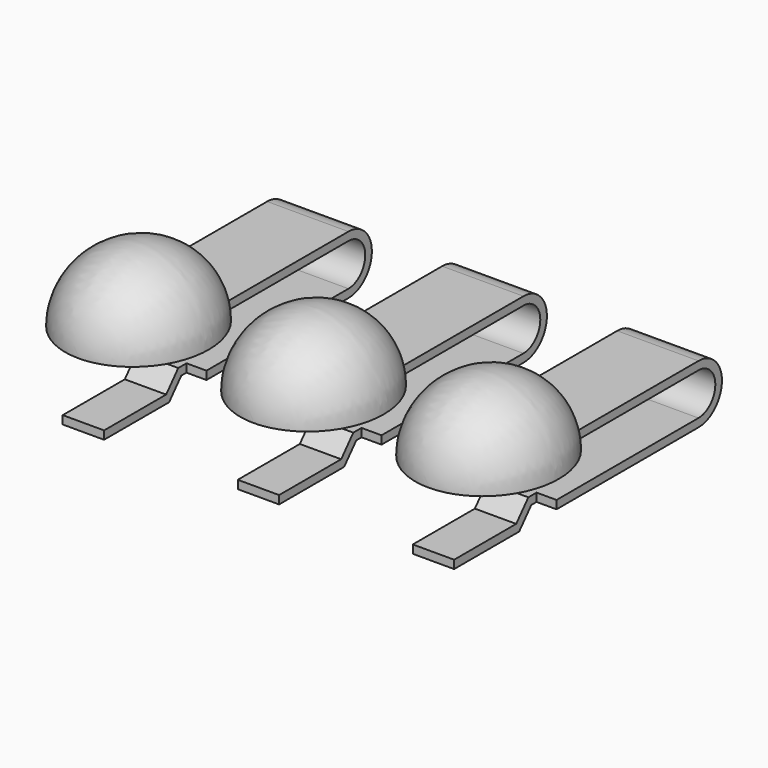
from build123d import *

# Parameters (mm, degrees)
PAD001_DEPTH      = 0.59
PAD001_DEPTH_BACK = 0.59
PAD002_DEPTH      = 0.12
SKETCH009_W       = 0.29
SKETCH009_H       = 1.495
POCKET004_DEPTH   = 10.532424
REVOLUTION_ANGLE  = -180
ARRAY_X_COUNT     = 3
ARRAY_X_PITCH     = 2.54


with BuildPart() as array:
    # Sketch007 → Pad001 (new body, two sides)
    with BuildSketch(Plane.YZ) as pad001_sk:
        with BuildLine():
            Line((-0.97, 0.12), (-3.07, 0.12))
            ThreePointArc((-3.07, 0.12), (-3.495, -0.305), (-3.07, -0.73))
            Line((-3.07, -0.73), (-0.4, -0.73))
            Line((-0.4, -0.73), (-0.18, -0.98))
            Line((-0.18, -0.98), (1, -0.98))
            Line((1, -0.98), (1, -0.86))
            Line((1, -0.86), (-0.125752, -0.86))
            Line((-0.125752, -0.86), (-0.345752, -0.61))
            Line((-0.345752, -0.61), (-3.07, -0.61))
            ThreePointArc((-3.07, 0), (-3.375, -0.305), (-3.07, -0.61))
            Line((-3.07, 0), (-0.97, 0))
            Line((-0.97, 0), (-0.97, 0.12))
        make_face()
    extrude(amount=PAD001_DEPTH)
    extrude(pad001_sk.sketch, amount=-PAD001_DEPTH_BACK)

    # Sketch008 → Pad002 (join)
    with BuildSketch(Plane.XY):
        with BuildLine():
            Line((-0.59, -0.77), (-0.59, -0.97))
            Line((-0.59, -0.97), (-0.19, -0.97))
            ThreePointArc((-0.59, -0.77), (-0.40933, -0.90866), (-0.19, -0.97))
        make_face()
    pad002 = extrude(amount=PAD002_DEPTH)

    # Mirrored004: Pad002 across Sketch008 V_Axis
    add(pad002.mirror(Plane(origin=(0, 0, 0), x_dir=(0, 0, 1), z_dir=(1, 0, 0))))

    # Sketch009 → Pocket004 (cut, through all)
    with BuildSketch(Plane.XY):
        with Locations((-0.445, 0.2525)):
            Rectangle(SKETCH009_W, SKETCH009_H)
    pocket004 = extrude(amount=-POCKET004_DEPTH, mode=Mode.SUBTRACT)

    # Mirrored005: Pocket004 across Sketch009 V_Axis
    add(pocket004.mirror(Plane(origin=(0, 0, 0), x_dir=(0, 0, 1), z_dir=(1, 0, 0))), mode=Mode.SUBTRACT)

    # Sketch006 → Revolution (revolve)
    with BuildSketch(Plane.XY):
        with BuildLine():
            add(Edge.make_bspline(
                [(0, -1.09), (1.02, -1.09), (1.02, 0), (1.02, 1.09), (0, 1.09)],
                knots=[0, 0, 0, 1.570796, 1.570796, 3.141593, 3.141593, 3.141593], degree=2, weights=[1, 0.707107, 1, 0.707107, 1]))
            Line((0, 1.09), (0, 0.97))
            add(Edge.make_bspline(
                [(0, 0.97), (0.9, 0.97), (0.9, 0), (0.9, -0.97), (0, -0.97)],
                knots=[0, 0, 0, 1, 1, 2, 2, 2], degree=2, weights=[1, 0.707, 1, 0.707, 1]))
            Line((0, -0.97), (0, -1.09))
        make_face()
    revolve(axis=Axis((0, 0, 0), (0, 1, 0)), revolution_arc=REVOLUTION_ANGLE)

    # Array X: Array ×3


with BuildPart() as array_1:
    add(array.part)
    with Locations(*[(i * ARRAY_X_PITCH, 0, 0) for i in range(1, ARRAY_X_COUNT)]):
        add(array.part)


with BuildPart() as array_2:
    # Array placement: moved
    add(array_1.part.moved(Location((-2.54, 3.65, 0.98))))


with BuildPart() as part_mirroring:
    # Part__Mirroring: instance of Array
    add(array_2.part.mirror(Plane(origin=(0, 0, 0), x_dir=(1, 0, 0), z_dir=(0, 1, 0))))


solid = part_mirroring.part
